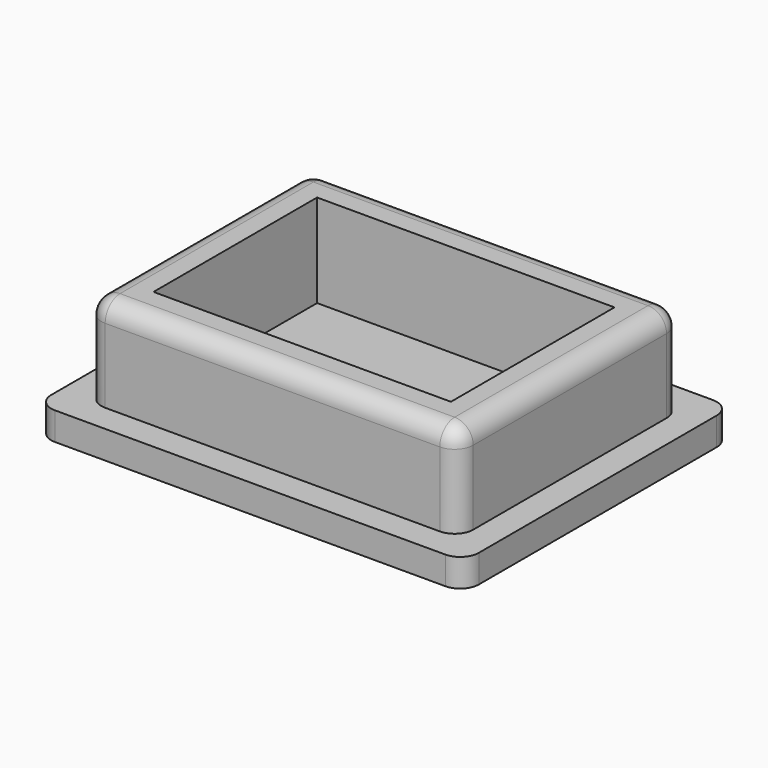
from build123d import *

# Parameters (mm, degrees)
F0_W     = 40
F0_H     = 30
F0_W_2   = 32
F0_H_2   = 22
F1_DEPTH = 10
F0_W_3   = 46
F0_H_3   = 36
F2_DEPTH = 3
F3_R     = 2


with BuildPart() as f1:
    # F0 (on Top) → F1 (new body)
    with BuildSketch(Plane.XY):
        Rectangle(F0_W, F0_H)
        Rectangle(F0_W_2, F0_H_2, mode=Mode.SUBTRACT)
    extrude(amount=F1_DEPTH)

    # F0 (on Top) → F2 (join)
    with BuildSketch(Plane.XY):
        Rectangle(F0_W_3, F0_H_3)
        Rectangle(F0_W, F0_H, mode=Mode.SUBTRACT)
        Rectangle(F0_W, F0_H)
        Rectangle(F0_W_2, F0_H_2, mode=Mode.SUBTRACT)
        Rectangle(F0_W_2, F0_H_2)
    extrude(amount=-F2_DEPTH)

    # F3
    f3_edges = [f1.edges().sort_by_distance(p)[0] for p in [
        (-20, -15, 5),
        (-20, 15, 5),
        (20, -15, 5),
        (0, -15, 10),
        (-20, 0, 10),
        (0, 15, 10),
        (20, 0, 10),
        (20, 15, 5),
        (23, 18, -1.5),
        (23, -18, -1.5),
        (-23, -18, -1.5),
        (-23, 18, -1.5),
    ]]
    fillet(f3_edges, radius=F3_R)


solid = f1.part
